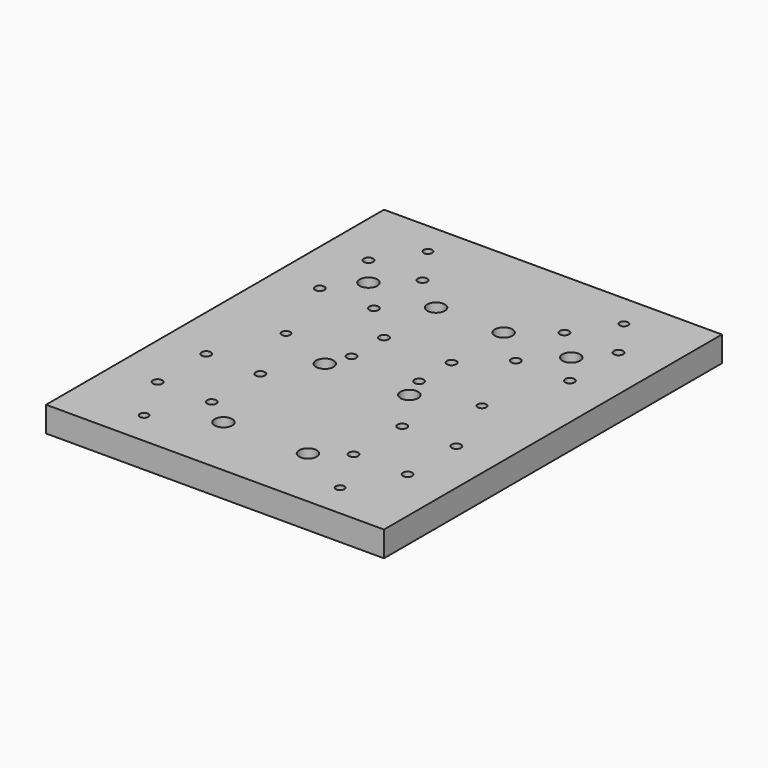
from build123d import *

# Parameters (mm, degrees)
SKETCH_W        = 200
SKETCH_H        = 250
PAD_DEPTH       = 15
SKETCH001_R     = 3.25
POCKET_DEPTH    = 15
SKETCH002_R     = 5.2
POCKET001_DEPTH = 6.2
SKETCH003_R     = 2.5
POCKET002_DEPTH = 15
SKETCH004_R     = 3.25
POCKET003_DEPTH = 15
SKETCH005_R     = 5.2
POCKET004_DEPTH = 7
SKETCH006_R     = 2.75
POCKET005_DEPTH = 15
SKETCH007_R     = 5
POCKET006_DEPTH = 6
SKETCH008_R     = 2.75
POCKET007_DEPTH = 15
SKETCH009_R     = 5
POCKET008_DEPTH = 6


with BuildPart() as part:
    # Sketch → Pad (new body)
    with BuildSketch(Plane.XY):
        with Locations((100, 125)):
            Rectangle(SKETCH_W, SKETCH_H)
    extrude(amount=PAD_DEPTH)

    # Sketch001 (on Face6 of Pad) → Pocket (cut)
    with BuildSketch(Plane.XY.offset(15)):
        with Locations((125, 37.5)):
            Circle(SKETCH001_R)
        with Locations((75, 37.5)):
            Circle(SKETCH001_R)
        with Locations((125, 112.5)):
            Circle(SKETCH001_R)
        with Locations((75, 112.5)):
            Circle(SKETCH001_R)
    extrude(amount=-POCKET_DEPTH, mode=Mode.SUBTRACT)

    # Sketch002 (on Face5 of Pocket) → Pocket001 (cut)
    with BuildSketch(Plane.XY.offset(15)):
        with Locations((75, 112.5)):
            Circle(SKETCH002_R)
        with Locations((125, 112.5)):
            Circle(SKETCH002_R)
        with Locations((75, 37.5)):
            Circle(SKETCH002_R)
        with Locations((125, 37.5)):
            Circle(SKETCH002_R)
    extrude(amount=-POCKET001_DEPTH, mode=Mode.SUBTRACT)

    # Sketch003 (on Face5 of Pocket001) → Pocket002 (cut)
    with BuildSketch(Plane.XY.offset(15)):
        with Locations((42, 230)):
            Circle(SKETCH003_R)
        with Locations((42, 125)):
            Circle(SKETCH003_R)
        with Locations((42, 20)):
            Circle(SKETCH003_R)
        with Locations((158, 230)):
            Circle(SKETCH003_R)
        with Locations((158, 125)):
            Circle(SKETCH003_R)
        with Locations((158, 20)):
            Circle(SKETCH003_R)
    extrude(amount=-POCKET002_DEPTH, mode=Mode.SUBTRACT)

    # Sketch004 (on Face5 of Pocket002) → Pocket003 (cut)
    with BuildSketch(Plane.XY.offset(15)):
        with Locations((40, 188.5)):
            Circle(SKETCH004_R)
        with Locations((80, 188.5)):
            Circle(SKETCH004_R)
        with Locations((120, 188.5)):
            Circle(SKETCH004_R)
        with Locations((160, 188.5)):
            Circle(SKETCH004_R)
    extrude(amount=-POCKET003_DEPTH, mode=Mode.SUBTRACT)

    # Sketch005 (on Face5 of Pocket003) → Pocket004 (cut)
    with BuildSketch(Plane.XY.offset(15)):
        with Locations((40, 188.5)):
            Circle(SKETCH005_R)
        with Locations((80, 188.5)):
            Circle(SKETCH005_R)
        with Locations((120, 188.5)):
            Circle(SKETCH005_R)
        with Locations((160, 188.5)):
            Circle(SKETCH005_R)
    extrude(amount=-POCKET004_DEPTH, mode=Mode.SUBTRACT)

    # Sketch006 (on Face5 of Pocket004) → Pocket005 (cut)
    with BuildSketch(Plane.XY.offset(15)):
        with Locations((26, 206)):
            Circle(SKETCH006_R)
        with Locations((58, 206)):
            Circle(SKETCH006_R)
        with Locations((26, 170)):
            Circle(SKETCH006_R)
        with Locations((58, 170)):
            Circle(SKETCH006_R)
        with Locations((26, 86)):
            Circle(SKETCH006_R)
        with Locations((58, 86)):
            Circle(SKETCH006_R)
        with Locations((26, 50)):
            Circle(SKETCH006_R)
        with Locations((58, 50)):
            Circle(SKETCH006_R)
        with Locations((142, 206)):
            Circle(SKETCH006_R)
        with Locations((174, 206)):
            Circle(SKETCH006_R)
        with Locations((142, 170)):
            Circle(SKETCH006_R)
        with Locations((174, 170)):
            Circle(SKETCH006_R)
        with Locations((142, 86)):
            Circle(SKETCH006_R)
        with Locations((174, 86)):
            Circle(SKETCH006_R)
        with Locations((142, 50)):
            Circle(SKETCH006_R)
        with Locations((174, 50)):
            Circle(SKETCH006_R)
    extrude(amount=-POCKET005_DEPTH, mode=Mode.SUBTRACT)

    # Sketch007 (on Face4 of Pocket005) → Pocket006 (cut)
    with BuildSketch(Plane(origin=(0, 0, 0), x_dir=(1, 0, 0), z_dir=(0, 0, -1))):
        with Locations((26, -50)):
            Circle(SKETCH007_R)
        with Locations((58, -50)):
            Circle(SKETCH007_R)
        with Locations((142, -50)):
            Circle(SKETCH007_R)
        with Locations((174, -50)):
            Circle(SKETCH007_R)
        with Locations((142, -86)):
            Circle(SKETCH007_R)
        with Locations((174, -86)):
            Circle(SKETCH007_R)
        with Locations((26, -86)):
            Circle(SKETCH007_R)
        with Locations((58, -86)):
            Circle(SKETCH007_R)
        with Locations((26, -170)):
            Circle(SKETCH007_R)
        with Locations((58, -170)):
            Circle(SKETCH007_R)
        with Locations((26, -206)):
            Circle(SKETCH007_R)
        with Locations((58, -206)):
            Circle(SKETCH007_R)
        with Locations((142, -170)):
            Circle(SKETCH007_R)
        with Locations((174, -170)):
            Circle(SKETCH007_R)
        with Locations((142, -206)):
            Circle(SKETCH007_R)
        with Locations((174, -206)):
            Circle(SKETCH007_R)
    extrude(amount=-POCKET006_DEPTH, mode=Mode.SUBTRACT)

    # Sketch008 (on Face5 of Pocket006) → Pocket007 (cut)
    with BuildSketch(Plane.XY.offset(15)):
        with Locations((80, 150)):
            Circle(SKETCH008_R)
        with Locations((120, 150)):
            Circle(SKETCH008_R)
        with Locations((80, 126)):
            Circle(SKETCH008_R)
        with Locations((120, 126)):
            Circle(SKETCH008_R)
    extrude(amount=-POCKET007_DEPTH, mode=Mode.SUBTRACT)

    # Sketch009 (on Face4 of Pocket007) → Pocket008 (cut)
    with BuildSketch(Plane(origin=(0, 0, 0), x_dir=(1, 0, 0), z_dir=(0, 0, -1))):
        with Locations((80, -126)):
            Circle(SKETCH009_R)
        with Locations((120, -126)):
            Circle(SKETCH009_R)
        with Locations((80, -150)):
            Circle(SKETCH009_R)
        with Locations((120, -150)):
            Circle(SKETCH009_R)
    extrude(amount=-POCKET008_DEPTH, mode=Mode.SUBTRACT)


solid = part.part
